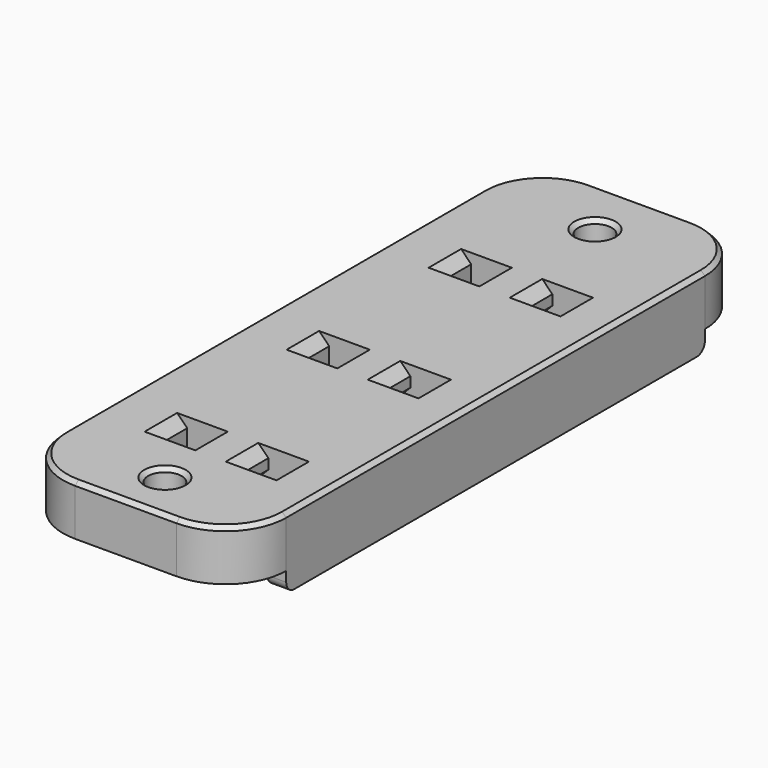
from build123d import *

# Parameters (mm, degrees)
SKETCH011_W         = 22
SKETCH011_H         = 63.6
PAD006_DEPTH        = 5
FILLET003_R         = 6
SKETCH012_W         = 1.85
SKETCH012_H         = 51.6
PAD007_DEPTH        = 2
FILLET004_R         = 1
SKETCH013_R         = 1.65
POCKET009_DEPTH     = 7.001
SKETCH014_W         = 3
SKETCH014_H         = 4
POCKET010_DEPTH     = 7.001
LINEARPATTERN_COUNT = 3
LINEARPATTERN_PITCH = 17.5
SKETCH015_W         = 11
SKETCH015_H         = 39
POCKET011_DEPTH     = 2
CHAMFER006_SIZE     = 1
CHAMFER007_SIZE     = 0.4


with BuildPart() as part:
    # Sketch011 → Pad006 (new body)
    with BuildSketch(Plane.XY):
        with Locations((0, -1)):
            Rectangle(SKETCH011_W, SKETCH011_H)
    extrude(amount=PAD006_DEPTH)

    # Fillet003
    fillet003_edges = [part.edges().sort_by_distance(p)[0] for p in [
        (-11, -32.8, 2.5),
        (11, -32.8, 2.5),
        (-11, 30.8, 2.5),
        (11, 30.8, 2.5),
    ]]
    fillet(fillet003_edges, radius=FILLET003_R)

    # Sketch012 (on Face2 of Fillet003) → Pad007 (join)
    with BuildSketch(Plane(origin=(0, 0, 0), x_dir=(1, 0, 0), z_dir=(0, 0, -1))):
        with Locations((-10.075, 1)):
            Rectangle(SKETCH012_W, SKETCH012_H)
        with Locations((10.075, 1)):
            Rectangle(SKETCH012_W, SKETCH012_H)
    extrude(amount=PAD007_DEPTH)

    # Fillet004
    fillet004_edges = [part.edges().sort_by_distance(p)[0] for p in [
        (-10.075, -26.8, -2),
        (-10.075, 24.8, -2),
        (10.075, 24.8, -2),
        (10.075, -26.8, -2),
    ]]
    fillet(fillet004_edges, radius=FILLET004_R)

    # Sketch013 (on Face19 of Fillet004) → Pocket009 (cut, through all)
    with BuildSketch(Plane.XY.offset(5)):
        with Locations((0, 25)):
            Circle(SKETCH013_R)
        with Locations((0, -28)):
            Circle(SKETCH013_R)
    extrude(amount=-POCKET009_DEPTH, mode=Mode.SUBTRACT)

    # Sketch014 (on Face21 of Pocket009) → Pocket010 (cut, through all)
    with BuildSketch(Plane.XY.offset(5)):
        with Locations((-3.5, 14)):
            Rectangle(SKETCH014_W, SKETCH014_H)
        with Locations((4.5, 14)):
            Rectangle(SKETCH014_W, SKETCH014_H)
    pocket010 = extrude(amount=-POCKET010_DEPTH, mode=Mode.SUBTRACT)

    # LinearPattern: Pocket010 ×3
    with Locations(*[(0, -i * LINEARPATTERN_PITCH, 0) for i in range(1, LINEARPATTERN_COUNT)]):
        add(pocket010, mode=Mode.SUBTRACT)

    # Sketch015 (on Face4 of LinearPattern) → Pocket011 (cut)
    with BuildSketch(Plane(origin=(0, 0, 0), x_dir=(1, 0, 0), z_dir=(0, 0, -1))):
        with Locations((0.5, 3.5)):
            Rectangle(SKETCH015_W, SKETCH015_H)
    extrude(amount=-POCKET011_DEPTH, mode=Mode.SUBTRACT)

    # Chamfer006
    chamfer006_edges = [part.edges().sort_by_distance(p)[0] for p in [
        (-2, 14, 5),
        (-5, 14, 5),
        (3, 14, 5),
        (6, 14, 5),
        (6, -3.5, 5),
        (3, -3.5, 5),
        (-5, -3.5, 5),
        (-2, -3.5, 5),
        (6, -21, 5),
        (3, -21, 5),
        (-5, -21, 5),
        (-2, -21, 5),
        (-2, 14, 2),
        (3, 14, 2),
        (3, -3.5, 2),
        (-2, -3.5, 2),
        (-2, -21, 2),
        (3, -21, 2),
    ]]
    chamfer(chamfer006_edges, length=CHAMFER006_SIZE)

    # Chamfer007
    chamfer007_edges = [part.edges().sort_by_distance(p)[0] for p in [
        (0, 30.8, 5),
        (-1.65, 25, 5),
        (-1.65, -28, 5),
    ]]
    chamfer(chamfer007_edges, length=CHAMFER007_SIZE)


solid = part.part
